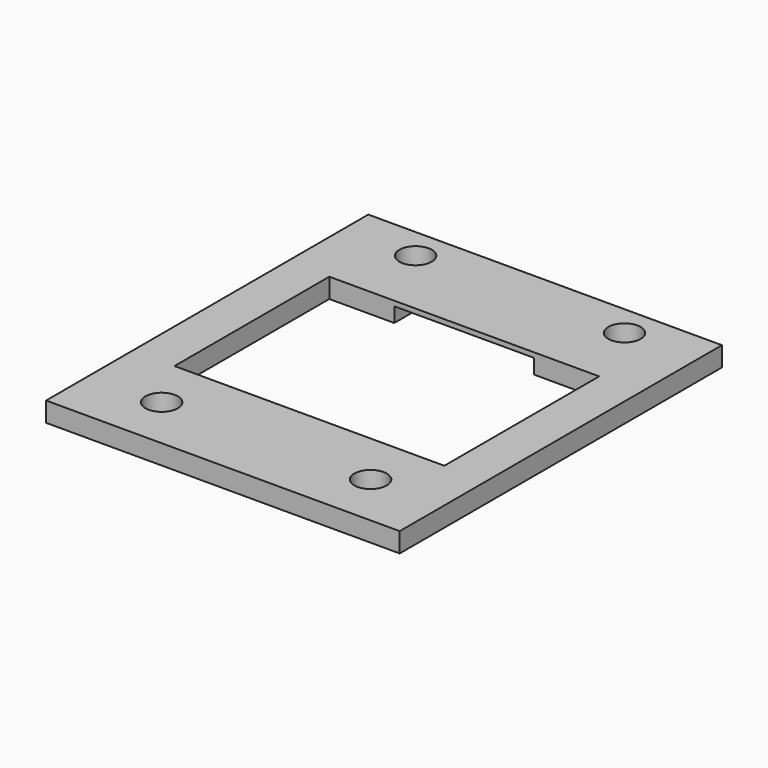
from build123d import *

# Parameters (mm, degrees)
SKETCH033_W      = 36
SKETCH033_H      = 41
SKETCH033_R      = 1.65
EXTRUDE035_DEPTH = 2
SKETCH039_W      = 14.242
SKETCH039_H      = 2.925
EXTRUDE039_DEPTH = 0.5


with BuildPart() as extrude_displaycase_front:
    # Sketch033 → Extrude035 (new body)
    with BuildSketch(Plane.XY):
        with Locations((13.635, 13)):
            Rectangle(SKETCH033_W, SKETCH033_H)
        with Locations((3, 30.31)):
            Circle(SKETCH033_R, mode=Mode.SUBTRACT)
        with Locations((24.27, 30.31)):
            Circle(SKETCH033_R, mode=Mode.SUBTRACT)
        with Locations((3, -2)):
            Circle(SKETCH033_R, mode=Mode.SUBTRACT)
        with Locations((24.27, -2)):
            Circle(SKETCH033_R, mode=Mode.SUBTRACT)
        Polygon((27.37, 23.21), (27.37, 3.51), (-0.1, 3.51), (-0.1, 23.21), (6.514, 23.21), (6.514, 26.135), (20.756, 26.135), (20.756, 23.21), align=None, mode=Mode.SUBTRACT)
    extrude(amount=-EXTRUDE035_DEPTH)


with BuildPart() as fusion_displaycase_front:
    # Sketch039 → Extrude039 (new body)
    with BuildSketch(Plane.XY):
        with Locations((13.635, 24.6725)):
            Rectangle(SKETCH039_W, SKETCH039_H)
    extrude(amount=-EXTRUDE039_DEPTH)

    # Fusion012: union Extrude_DisplayCase_Front
    add(extrude_displaycase_front.part)


solid = fusion_displaycase_front.part
